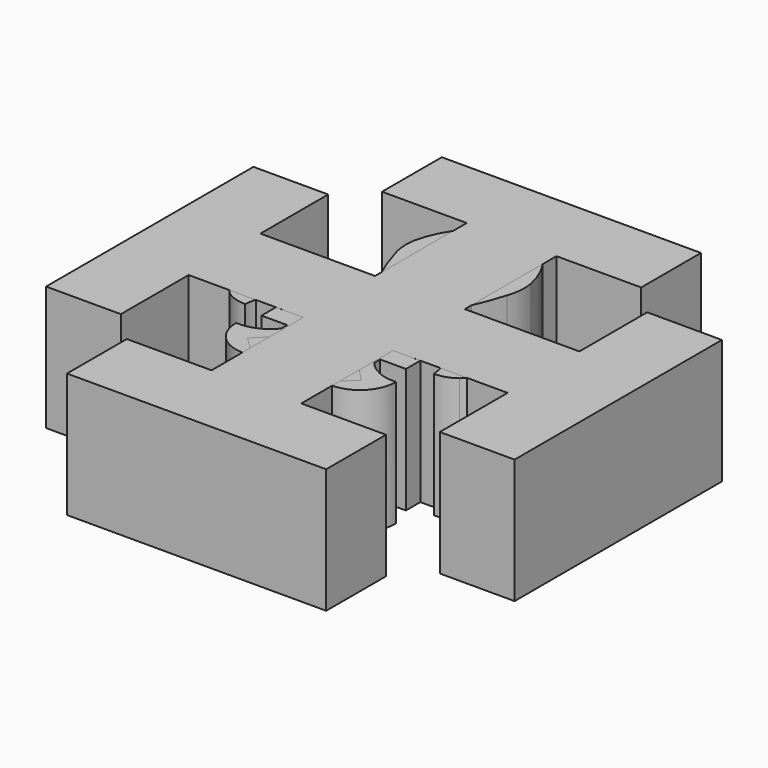
from build123d import *

# Parameters (mm, degrees)
F4_DEPTH = 25
F6_DEPTH = 25
F7_DEPTH = 25
F8_SCALE = 1.0639


with BuildPart() as f4:
    # F1 (on Top) → F4 (new body)
    with BuildSketch(Plane.XY):
        with BuildLine():
            Line((0, -32.5396172702), (0, 35.9592616823))
            ThreePointArc((0, 35.9592616823), (-3.2697243903, 34.1869293921), (-6.1570475209, 31.842654563))
            ThreePointArc((-6.1570475209, 31.842654563), (-9.678511735, 27.4797860383), (-11.7063832465, 22.2526387181))
            ThreePointArc((-11.7063832465, 22.2526387181), (-11.8362878055, 19.4628050637), (-11.2418027388, 16.7339528289))
            ThreePointArc((-11.2418027388, 16.7339528289), (-9.5234916383, 11.8388817508), (-7.2609484196, 7.1703474969))
            ThreePointArc((-7.2609484196, 7.1703474969), (-5.1102294701, 2.295669753), (-3.8272319362, -2.8755962849))
            ThreePointArc((-3.8272319362, -2.8755962849), (-5.6557055069, 0.9208248858), (-7.9597122967, 4.4489521533))
            ThreePointArc((-7.9597122967, 4.4489521533), (-12.8934125497, 7.735368551), (-18.8210848719, 7.6673114672))
            ThreePointArc((-18.8210848719, 7.6673114672), (-23.4948725765, 4.823338176), (-26.0770972818, 0))
            ThreePointArc((-26.0770972818, 0), (-25.8916050048, -5.3258386332), (-23.0417121202, -9.8288459703))
            ThreePointArc((-23.0417121202, -9.8288459703), (-21.0904351996, -10.8402117285), (-18.9162939787, -11.1618516967))
            ThreePointArc((-18.9162939787, -11.1618516967), (-18.7505935469, -9.8090288122), (-18.3148639608, -8.5176241051))
            ThreePointArc((-18.3148639608, -8.5176241051), (-17.5891277306, -7.24802711), (-16.6217970491, -6.1512860474))
            ThreePointArc((-16.6217970491, -6.1512860474), (-15.1691912992, -5.204689655), (-13.4660750628, -4.8798769712))
            ThreePointArc((-13.4660750628, -4.8798769712), (-12.0805726197, -5.0325619293), (-10.7904189828, -5.5602297313))
            ThreePointArc((-10.7904189828, -5.5602297313), (-9.8014590545, -6.3284370043), (-8.9444001864, -7.2414727378))
            ThreePointArc((-8.9444001864, -7.2414727378), (-8.4618703636, -8.0806833732), (-8.1655316146, -9.002254242))
            Line((-8.1655316146, -9.002254242), (-14.4911732853, -9.002254242))
            Line((-14.4911732853, -9.002254242), (-14.4911732853, -12.6185957342))
            Line((-14.4911732853, -12.6185957342), (-9.340364486, -12.6185957342))
            Line((-9.340364486, -12.6185957342), (-9.340364486, -14.1148399562))
            ThreePointArc((-9.340364486, -14.1148399562), (-12.3270728412, -16.3817179569), (-16.0208158195, -17.0262530446))
            ThreePointArc((-16.0208158195, -17.0262530446), (-13.9766014859, -22.1559219559), (-8.8664144278, -24.2483615875))
            ThreePointArc((-8.8664144278, -24.2483615875), (-5.5868333909, -23.1922287531), (-3.1338650733, -20.7727216184))
            Line((-3.1338650733, -20.7727216184), (-6.5089949237, -26.8010321734))
            ThreePointArc((-6.5089949237, -26.8010321734), (-6.635815165, -27.3250204015), (-6.4721712063, -27.8387009361))
            ThreePointArc((-6.4721712063, -27.8387009361), (-3.6653485725, -30.7801637568), (0, -32.5396172702))
        make_face()
    extrude(amount=F4_DEPTH)

    # F5: F4 across face


with BuildPart() as f4_1:
    add(f4.part)
    add(f4.part.mirror(Plane(origin=(0, 1.709822206, 12.5), x_dir=(0, 1, 0), z_dir=(1, 0, 0))))


with BuildPart() as f6:
    # F2 (on Top) → F6 (new body)
    with BuildSketch(Plane.XY):
        with BuildLine():
            ThreePointArc((5.6064678356, 6.7269327119), (6.9866446891, 10.3249023668), (5.6064678356, 13.9228720218))
            ThreePointArc((5.6064678356, 13.9228720218), (2.1339699461, 16.2994871237), (-1.9288528711, 17.3949375749))
            Line((-1.9288528711, 17.3949375749), (-2.3866211995, 4.6849809587))
            Line((-2.3866211995, 4.6849809587), (-2.3866211995, -7.2287432849))
            Line((-2.3866211995, -7.2287432849), (-9.308461056, -0.0897167804))
            Line((-9.308461056, -0.0897167804), (-11.8778402445, -2.5809291694))
            Line((-11.8778402445, -2.5809291694), (-3.2258499414, -11.5043930709))
            Line((-3.2258499414, -11.5043930709), (-11.4267019294, -19.9625632853))
            Line((-11.4267019294, -19.9625632853), (-8.8573227409, -22.4537756743))
            Line((-8.8573227409, -22.4537756743), (-2.3866211995, -15.7800428569))
            Line((-2.3866211995, -15.7800428569), (-2.3866211995, -29.1008576751))
            Line((-2.3866211995, -29.1008576751), (0, -29.1008576751))
            Line((0, -29.1008576751), (2.3866211995, -29.1008576751))
            Line((2.3866211995, -29.1008576751), (2.3866211995, -15.7800428569))
            Line((2.3866211995, -15.7800428569), (8.8573227409, -22.4537756743))
            Line((8.8573227409, -22.4537756743), (11.4267019294, -19.9625632853))
            Line((11.4267019294, -19.9625632853), (3.2258499414, -11.5043930709))
            Line((3.2258499414, -11.5043930709), (11.8778402445, -2.5809291694))
            Line((11.8778402445, -2.5809291694), (9.308461056, -0.0897167804))
            Line((9.308461056, -0.0897167804), (2.3866211995, -7.2287432849))
            Line((2.3866211995, -7.2287432849), (2.3866211995, 4.6849809587))
            ThreePointArc((2.3866211995, 4.6849809587), (4.1658651322, 5.4389640375), (5.6064678356, 6.7269327119))
        make_face()
        with BuildLine():
            Line((2.2432571277, 7.6459771954), (2.2432571277, 11.7384465411))
            ThreePointArc((2.2432571277, 11.7384465411), (4.0483159092, 9.6922118682), (2.2432571277, 7.6459771954))
        make_face(mode=Mode.SUBTRACT)
    extrude(amount=F6_DEPTH)


with BuildPart() as f7:
    # F3 (on Top) → F7 (new body)
    with BuildSketch(Plane.XY):
        Polygon((-32, 26), (-47, 26), (-47, 0), (-47, -26), (-32, -26), (-32, -9), (-9, -9), (-9, -32), (-26, -32), (-26, -47), (0, -47), (26, -47), (26, -32), (9, -32), (9, -9), (32, -9), (32, -26), (47, -26), (47, 0), (47, 26), (32, 26), (32, 9), (9, 9), (9, 32), (26, 32), (26, 47), (0, 47), (-26, 47), (-26, 32), (-9, 32), (-9, 9), (-32, 9), align=None)
    extrude(amount=F7_DEPTH)


with BuildPart() as f4_2:
    # F8: moved
    add(f4_1.part.scale(F8_SCALE))


with BuildPart() as f6_1:
    # F8: moved
    add(f6.part.scale(F8_SCALE))


with BuildPart() as f7_1:
    # F8: moved
    add(f7.part.scale(F8_SCALE))


solid = Compound([f4_2.part, f6_1.part, f7_1.part])
